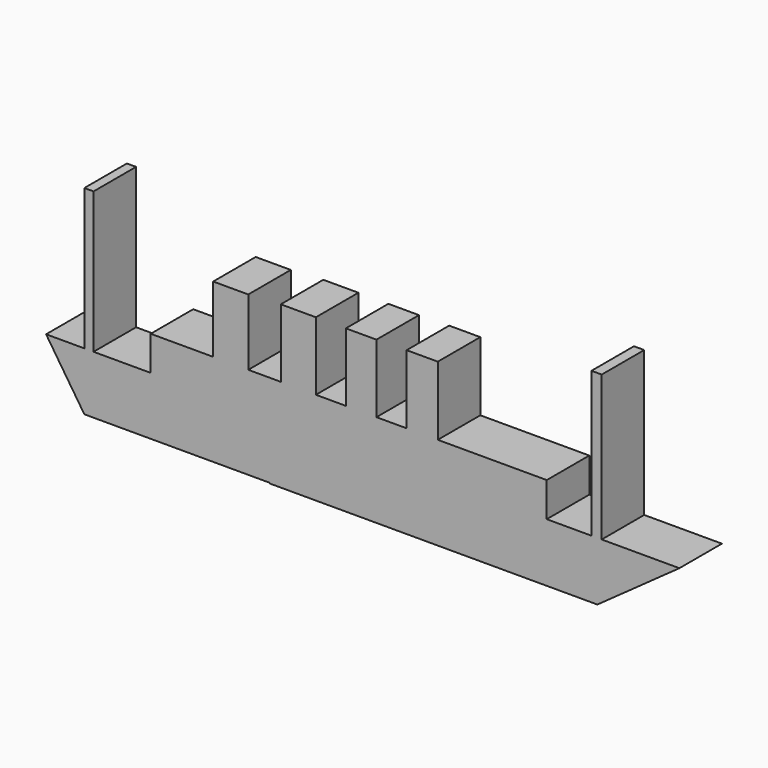
from build123d import *

# Parameters (mm, degrees)
F0_W     = 4.3990015984
F0_H     = 67.477737437
F0_W_2   = 16.7640000582
F0_H_2   = 31.6992038861
F0_W_3   = 16.7639926076
F0_H_3   = 32.6135987416
F0_W_4   = 14.630407095
F0_W_5   = 14.8861333728
F0_H_4   = 32.8822219744
F1_DEPTH = 25.4


with BuildPart() as f1:
    # F0 (on Front) → F1 (new body)
    with BuildSketch(Plane.XZ):
        Polygon((-144.5401906967, -29.4131990522), (-144.5401906967, -1.6764000757), (-201.3528943062, -1.6764000757), (-228.653088212, -1.6764000757), (-233.0520898104, -1.6764000757), (-233.0520898104, -29.4131990522), align=None)
        Polygon((-251.3400912285, -1.6764000757), (-233.0520898104, -29.4131990522), (-233.0520898104, -1.6764000757), align=None)
        Polygon((-201.3528943062, -1.6764000757), (-144.5401906967, -1.6764000757), (-12.0720909908, -1.6764000757), (-12.0720909908, 14.7828003392), (-64.1438290477, 14.7828003392), (-79.0299624205, 14.7828003392), (-93.4536904097, 14.7828003392), (-108.0840975046, 14.7828003392), (-122.4096938968, 14.7828003392), (-139.1736865044, 14.7828003392), (-154.7184884548, 14.7828003392), (-171.482488513, 14.7828003392), (-201.3528943062, 14.7828003392), align=None)
        with Locations((-230.8525890112, 32.0624686428)):
            Rectangle(F0_W, F0_H)
        with Locations((-163.1004884839, 30.6324022822)):
            Rectangle(F0_W_2, F0_H_2)
        with Locations((-130.7916902006, 31.08959971)):
            Rectangle(F0_W_3, F0_H_3)
        with Locations((-100.7688939571, 31.08959971)):
            Rectangle(F0_W_4, F0_H_3)
        with Locations((-71.5868957341, 31.2239113264)):
            Rectangle(F0_W_5, F0_H_4)
        Polygon((-12.0720909908, -1.6764000757), (-144.5401906967, -1.6764000757), (-144.5401906967, -29.4131990522), (-144.5401906967, -29.7180004418), (12.1270148084, -29.7180004418), (12.1270148084, -1.6764000757), (9.2878667638, -1.6764000757), align=None)
        Polygon((14.1938654706, -1.6764000757), (12.1270148084, -1.6764000757), (12.1270148084, -29.7180004418), (51.3263083994, -1.6764000757), align=None)
        Polygon((9.2878667638, 67.709222436), (9.2878667638, -1.6764000757), (12.1270148084, -1.6764000757), (14.1938654706, -1.6764000757), (14.1938654706, 67.709222436), align=None)
    extrude(amount=F1_DEPTH)


solid = f1.part
